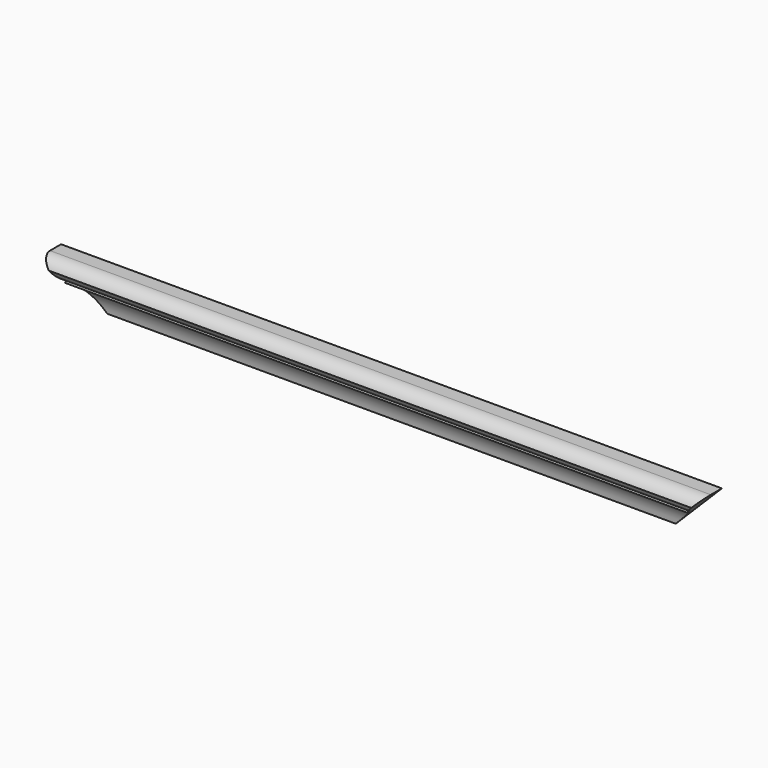
from build123d import *

# Parameters (mm, degrees)
SKETCH006_W          = 358
SKETCH006_H          = 25
PAD002_DEPTH         = 15
FRAME45CUT001_SIZE   = 24.99
ROUTERPATTERN002_R   = 15
ROUTER002_DEPTH      = 179.001
ROUTER002_DEPTH_BACK = 179.001
ROUTER006_DEPTH      = 179.001
ROUTER006_DEPTH_BACK = 179.001
ROUTER009_DEPTH      = 179.001
ROUTER009_DEPTH_BACK = 179.001


with BuildPart() as part:
    # Sketch006 → Pad002 (new body)
    with BuildSketch(Plane(origin=(21, -33, 102), x_dir=(1, 0, 0), z_dir=(0, -1, 0))):
        with Locations((179, 12.5)):
            Rectangle(SKETCH006_W, SKETCH006_H)
    extrude(amount=-PAD002_DEPTH)

    # Frame45Cut001
    frame45cut001_edges = [part.edges().sort_by_distance(p)[0] for p in [
        (21, -25.5, 102),
        (379, -25.5, 102),
    ]]
    chamfer(frame45cut001_edges, length=FRAME45CUT001_SIZE)

    # routerPattern002 → router002 (cut, two sides)
    with BuildSketch(Plane(origin=(200, -33, 102), x_dir=(0, 0, -1), z_dir=(1, 0, 0))) as router002_sk:
        Circle(ROUTERPATTERN002_R)
    extrude(amount=-ROUTER002_DEPTH, mode=Mode.SUBTRACT)
    extrude(router002_sk.sketch, amount=ROUTER002_DEPTH_BACK, mode=Mode.SUBTRACT)

    # routerPattern006 → router006 (cut, two sides)
    with BuildSketch(Plane(origin=(200, -33, 117), x_dir=(0, 0, -1), z_dir=(1, 0, 0))) as router006_sk:
        with BuildLine():
            ThreePointArc((7.500018, 0), (2.196711, -2.196698), (0, -7.5))
            ThreePointArc((0, -7.5), (-2.19671, -2.196698), (-7.500017, 0))
            ThreePointArc((-7.500017, 0), (-2.196704, 2.196704), (0, 7.500018))
            ThreePointArc((0, 7.500018), (2.196704, 2.196704), (7.500018, 0))
        make_face()
    extrude(amount=-ROUTER006_DEPTH, mode=Mode.SUBTRACT)
    extrude(router006_sk.sketch, amount=ROUTER006_DEPTH_BACK, mode=Mode.SUBTRACT)

    # routerPattern009 → router009 (cut, two sides)
    with BuildSketch(Plane(origin=(200, -33, 127), x_dir=(0, 0, -1), z_dir=(1, 0, 0))) as router009_sk:
        with BuildLine():
            ThreePointArc((7.500017, 0), (2.19671, -2.196698), (0, -7.5))
            ThreePointArc((0, -7.5), (-2.19671, -2.196698), (-7.500016, 0))
            ThreePointArc((-7.500016, 0), (-2.196704, 2.196704), (0, 7.500017))
            ThreePointArc((0, 7.500017), (2.196704, 2.196704), (7.500017, 0))
        make_face()
    extrude(amount=-ROUTER009_DEPTH, mode=Mode.SUBTRACT)
    extrude(router009_sk.sketch, amount=ROUTER009_DEPTH_BACK, mode=Mode.SUBTRACT)


solid = part.part
